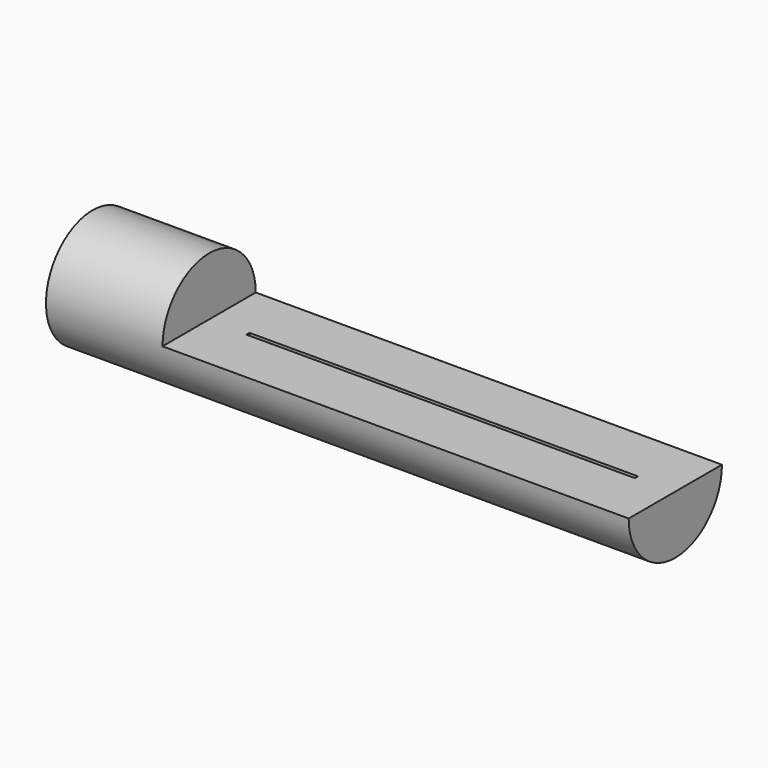
from build123d import *

# Parameters (mm, degrees)
F0_R     = 15
F1_DEPTH = 150
F3_DEPTH = 120
F4_W     = 100
F4_H     = 1
F5_DEPTH = 1


with BuildPart() as f1:
    # F0 (on Right) → F1 (new body)
    with BuildSketch(Plane.YZ):
        Circle(F0_R)
    extrude(amount=F1_DEPTH)

    # F2 (on face) → F3 (cut)
    with BuildSketch(Plane.YZ.offset(150)):
        with BuildLine():
            ThreePointArc((15, 0), (0, 15), (-15, 0))
            Line((-15, 0), (15, 0))
        make_face()
    extrude(amount=-F3_DEPTH, mode=Mode.SUBTRACT)

    # F4 (on face) → F5 (cut)
    with BuildSketch(Plane.XY):
        with Locations((90, 0)):
            Rectangle(F4_W, F4_H)
    extrude(amount=-F5_DEPTH, mode=Mode.SUBTRACT)


solid = f1.part
